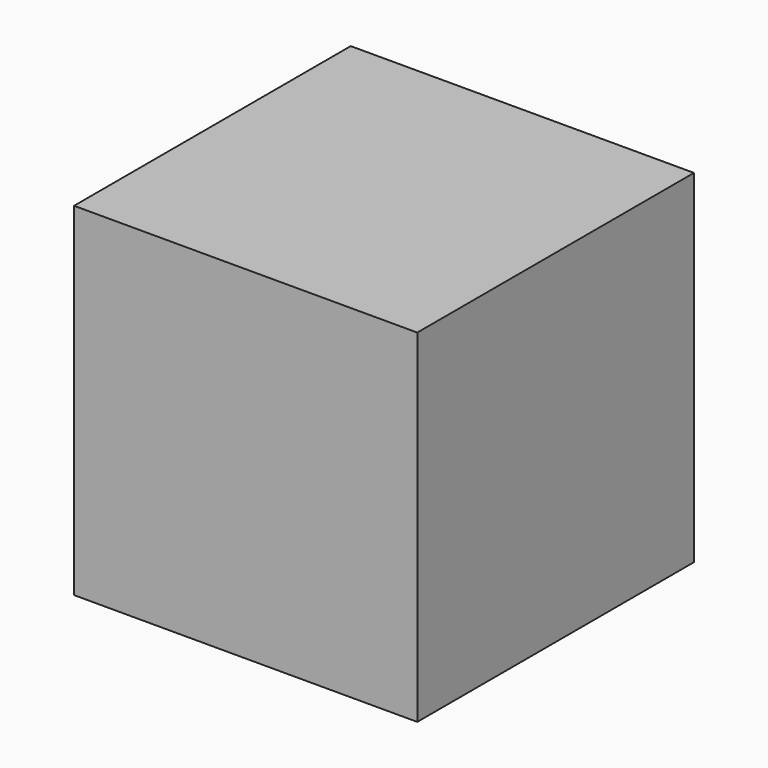
from build123d import *

# Parameters (mm, degrees)
F0_W     = 152.9306843877
F0_H     = 152.7281180024
F1_DEPTH = 25.4
F2_DEPTH = 75.1067474484
F3_DEPTH = 53.5841081291
F4_DEPTH = 25.399999693


with BuildPart() as f1:
    # F0 (on Front) → F1 (new body)
    with BuildSketch(Plane.XZ):
        with Locations((-0.6955824792, -0.2161078155)):
            Rectangle(F0_W, F0_H)
    extrude(amount=F1_DEPTH)

    # F2 (add): faces of the model
    f2_faces = [f1.faces().sort_by_distance(p)[0] for p in [
        (-0.6955824792, 0, -0.2161078155),
        (-0.6955824792, -25.4, -0.2161078155),
    ]]
    extrude(f2_faces, amount=F2_DEPTH, dir=(0, 1, 0))

    # F3 (add): a face of the model
    f3_faces = [f1.faces().sort_by_distance(p)[0] for p in [
        (-0.6955824792, -25.4, -0.2161078155),
    ]]
    extrude(f3_faces, amount=F3_DEPTH)

    # F4 (add): a face of the model
    f4_faces = [f1.faces().sort_by_distance(p)[0] for p in [
        (-77.1609246731, -1.9386803403, -0.2161078155),
    ]]
    extrude(f4_faces, amount=-F4_DEPTH)


solid = f1.part
